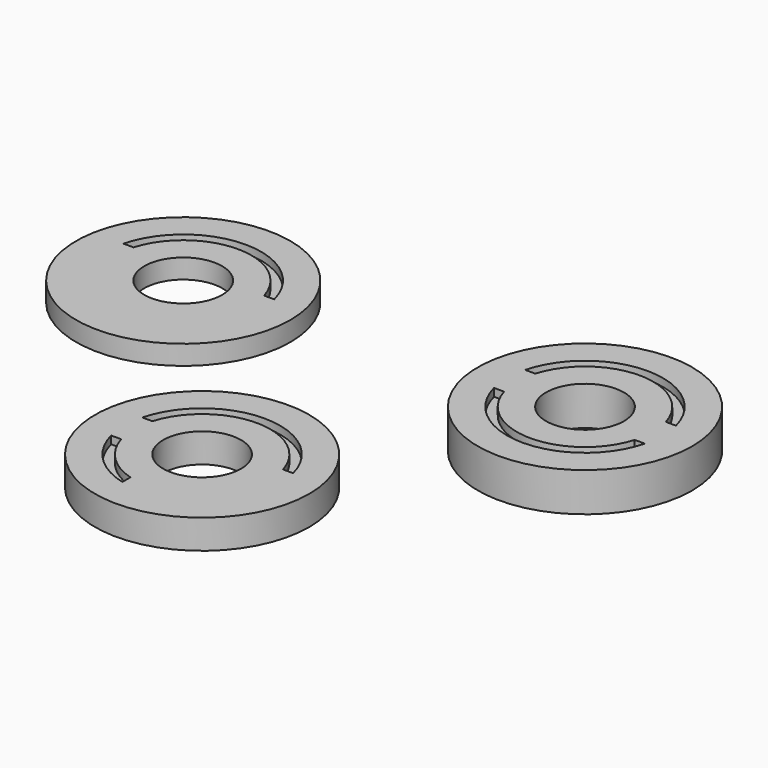
from build123d import *

# Parameters (mm, degrees)
F0_R      = 5.5
F0_R_2    = 2
F1_DEPTH  = 1
F3_DEPTH  = 0.4
F4_R      = 5.5
F4_R_2    = 2
F5_DEPTH  = 2
F7_DEPTH  = 0.4
F8_R      = 5.5
F8_R_2    = 2
F9_DEPTH  = 1.5
F11_DEPTH = 0.4


with BuildPart() as f1:
    # F0 (on Top) → F1 (new body)
    with BuildSketch(Plane.XY):
        Circle(F0_R)
        Circle(F0_R_2, mode=Mode.SUBTRACT)
    extrude(amount=F1_DEPTH)

    # F2 (on face) → F3 (cut)
    with BuildSketch(Plane.XY.offset(1)):
        with BuildLine():
            Line((3.3541019662, 1), (3.8729833462, 1))
            ThreePointArc((3.8729833462, 1), (0, 4), (-3.8729833462, 1))
            Line((-3.8729833462, 1), (-3.3541019662, 1))
            ThreePointArc((-3.3541019662, 1), (0, 3.5), (3.3541019662, 1))
        make_face()
    extrude(amount=-F3_DEPTH, mode=Mode.SUBTRACT)


with BuildPart() as f5:
    # F4 (on Top) → F5 (new body)
    with BuildSketch(Plane.XY):
        with Locations((20.6290315837, 0)):
            Circle(F4_R)
        with Locations((20.6290315837, 0)):
            Circle(F4_R_2, mode=Mode.SUBTRACT)
    extrude(amount=F5_DEPTH)

    # F6 (on face) → F7 (cut)
    with BuildSketch(Plane.XY.offset(2)):
        with BuildLine():
            ThreePointArc((17.2749296174, 1), (20.6290315837, 3.5), (23.9831335499, 1))
            Line((23.9831335499, 1), (24.5020149299, 1))
            ThreePointArc((24.5020149299, 1), (20.6290315837, 4), (16.7560482375, 1))
            Line((16.7560482375, 1), (17.2749296174, 1))
        make_face()
        with BuildLine():
            Line((24.5020149299, -1), (23.9831335499, -1))
            ThreePointArc((23.9831335499, -1), (20.6290315837, -3.5), (17.2749296174, -1))
            Line((17.2749296174, -1), (16.7560482375, -1))
            ThreePointArc((16.7560482375, -1), (20.6290315837, -4), (24.5020149299, -1))
        make_face()
    extrude(amount=-F7_DEPTH, mode=Mode.SUBTRACT)


with BuildPart() as f9:
    # F8 (on Top) → F9 (new body)
    with BuildSketch(Plane.XY):
        with Locations((10.6219938025, -12.065812014)):
            Circle(F8_R)
        with Locations((10.6219938025, -12.065812014)):
            Circle(F8_R_2, mode=Mode.SUBTRACT)
    extrude(amount=F9_DEPTH)

    # F10 (on face) → F11 (cut)
    with BuildSketch(Plane.XY.offset(1.5)):
        with BuildLine():
            Line((13.9760957687, -11.065812014), (14.4949771487, -11.065812014))
            ThreePointArc((14.4949771487, -11.065812014), (10.6219938025, -8.065812014), (6.7490104563, -11.065812014))
            Line((6.7490104563, -11.065812014), (7.2678918362, -11.065812014))
            ThreePointArc((7.2678918362, -11.065812014), (10.6219938025, -8.565812014), (13.9760957687, -11.065812014))
        make_face()
        with BuildLine():
            ThreePointArc((6.7490104563, -13.065812014), (7.7935666777, -14.8942391388), (9.6219938025, -15.9387953603))
            Line((9.6219938025, -15.9387953603), (9.6219938025, -15.4199139803))
            ThreePointArc((9.6219938025, -15.4199139803), (8.1471200683, -14.5406857482), (7.2678918362, -13.065812014))
            Line((7.2678918362, -13.065812014), (6.7490104563, -13.065812014))
        make_face()
    extrude(amount=-F11_DEPTH, mode=Mode.SUBTRACT)


solid = Compound([f1.part, f5.part, f9.part])
